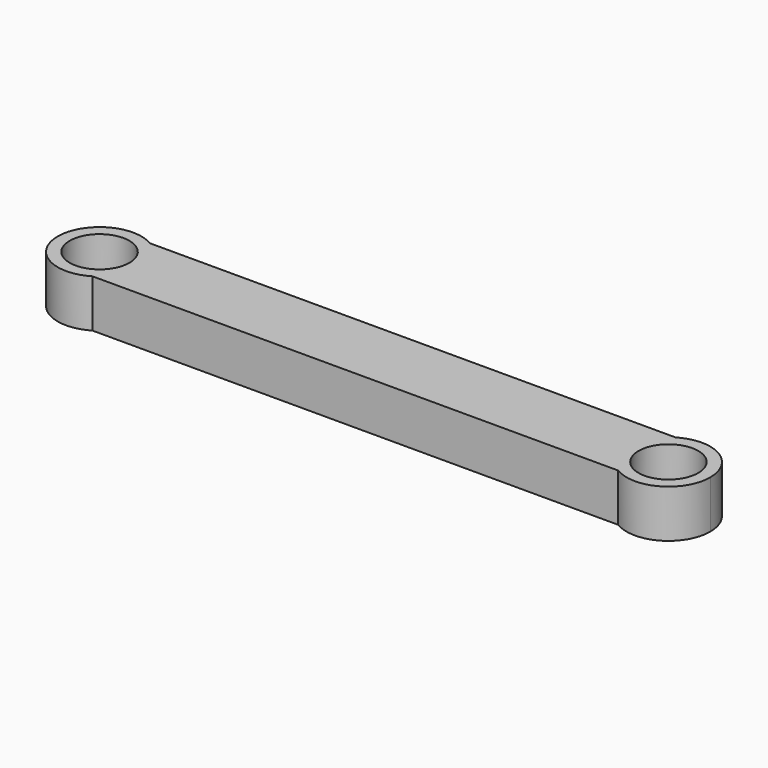
from build123d import *

# Parameters (mm, degrees)
F0_R     = 3.175
F1_DEPTH = 5.08


with BuildPart() as f1:
    # F0 (on Top) → F1 (new body)
    with BuildSketch(Plane.XY):
        with BuildLine():
            ThreePointArc((27.94, -3.81), (25.784525, 0), (27.94, 3.81))
            Line((27.94, 3.81), (-27.94, 3.81))
            ThreePointArc((-27.94, 3.81), (-26.360742, 2.188731), (-25.784525, 0))
            ThreePointArc((-25.784525, 0), (-26.360742, -2.188731), (-27.94, -3.81))
            Line((-27.94, -3.81), (27.94, -3.81))
        make_face()
        with BuildLine():
            ThreePointArc((34.674525, 0), (32.418256, 3.868783), (27.94, 3.81))
            ThreePointArc((27.94, 3.81), (25.784525, 0), (27.94, -3.81))
            ThreePointArc((27.94, -3.81), (32.418256, -3.868783), (34.674525, 0))
        make_face()
        with Locations((30.229525, 0)):
            Circle(F0_R, mode=Mode.SUBTRACT)
        with BuildLine():
            ThreePointArc((-25.784525, 0), (-26.360742, 2.188731), (-27.94, 3.81))
            ThreePointArc((-27.94, 3.81), (-34.674525, 0), (-27.94, -3.81))
            ThreePointArc((-27.94, -3.81), (-26.360742, -2.188731), (-25.784525, 0))
        make_face()
        with Locations((-30.229525, 0)):
            Circle(F0_R, mode=Mode.SUBTRACT)
    extrude(amount=F1_DEPTH)


solid = f1.part
